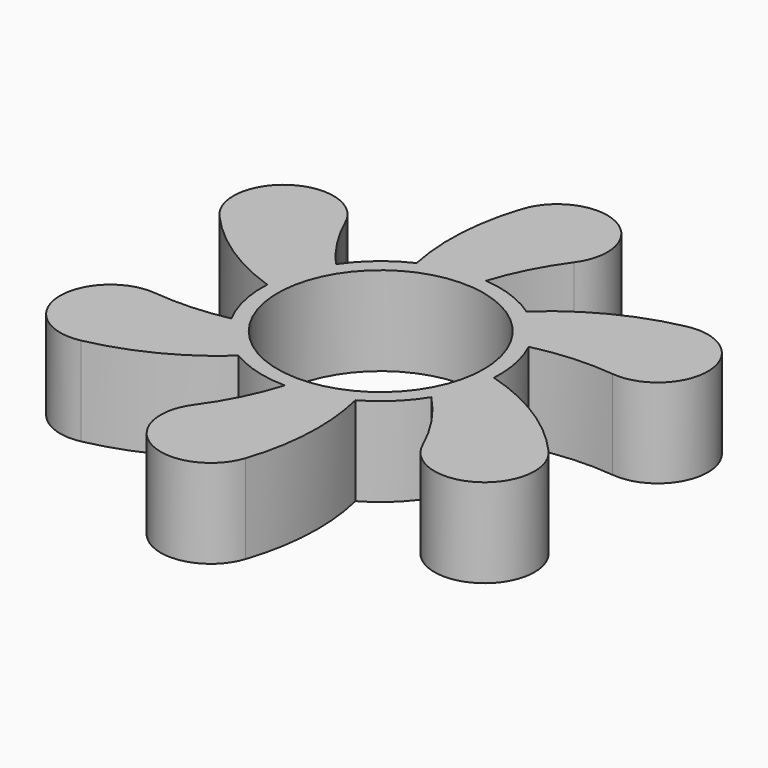
from build123d import *

# Parameters (mm, degrees)
F0_R     = 11.049
F1_DEPTH = 4.7625


with BuildPart() as f1:
    # F0 (on Top) → F1 (new body, symmetric)
    with BuildSketch(Plane.XY):
        with BuildLine():
            ThreePointArc((-23.600813, 7.887931), (-18.616866, 3.552228), (-12.68344, 0.648351))
            ThreePointArc((-12.68344, 0.648351), (-12.390379, -2.787204), (-11.184005, -6.017311))
            ThreePointArc((-11.184005, -6.017311), (-15.094919, -6.516433), (-19.03596, -6.404315))
            ThreePointArc((-19.03596, -6.404315), (-24.966197, -11.995847), (-18.533771, -17.001526))
            ThreePointArc((-18.533771, -17.001526), (-12.110801, -14.764654), (-6.511668, -10.903586))
            ThreePointArc((-6.511668, -10.903586), (-3.436804, -12.226135), (-0.123205, -12.699402))
            ThreePointArc((-0.123205, -12.699402), (-1.687285, -16.602653), (-3.873896, -20.194371))
            ThreePointArc((-3.873896, -20.194371), (-1.996606, -28.125873), (5.554653, -25.058067))
            ThreePointArc((5.554653, -25.058067), (6.841495, -18.122197), (6.171101, -11.099888))
            ThreePointArc((6.171101, -11.099888), (8.759982, -9.195255), (10.787824, -6.701705))
            ThreePointArc((10.787824, -6.701705), (13.533048, -10.119619), (15.649675, -13.958666))
            ThreePointArc((15.649675, -13.958666), (23.457202, -16.298636), (24.576034, -8.225151))
            ThreePointArc((24.576034, -8.225151), (19.16256, -3.61081), (12.681862, -0.678509))
            ThreePointArc((12.681862, -0.678509), (12.451689, 2.49909), (11.43792, 5.519419))
            ThreePointArc((11.43792, 5.519419), (15.701229, 6.15834), (20.011181, 6.067094))
            ThreePointArc((20.011181, 6.067094), (25.941418, 11.658626), (19.508992, 16.664306))
            ThreePointArc((19.508992, 16.664306), (12.972116, 14.369297), (7.298534, 10.393334))
            ThreePointArc((7.298534, 10.393334), (4.389518, 11.917304), (1.18699, 12.644408))
            ThreePointArc((1.18699, 12.644408), (2.729079, 16.397501), (4.849118, 19.857151))
            ThreePointArc((4.849118, 19.857151), (2.971827, 27.788652), (-4.579432, 24.720847))
            ThreePointArc((-4.579432, 24.720847), (-5.846436, 18.168393), (-5.362976, 11.512102))
            ThreePointArc((-5.362976, 11.512102), (-8.234877, 9.66834), (-10.512111, 7.126396))
            ThreePointArc((-10.512111, 7.126396), (-12.8413, 10.21498), (-14.674453, 13.621446))
            ThreePointArc((-14.674453, 13.621446), (-22.481981, 15.961416), (-23.600813, 7.887931))
        make_face()
        Circle(F0_R, mode=Mode.SUBTRACT)
    extrude(amount=F1_DEPTH, both=True)


solid = f1.part
